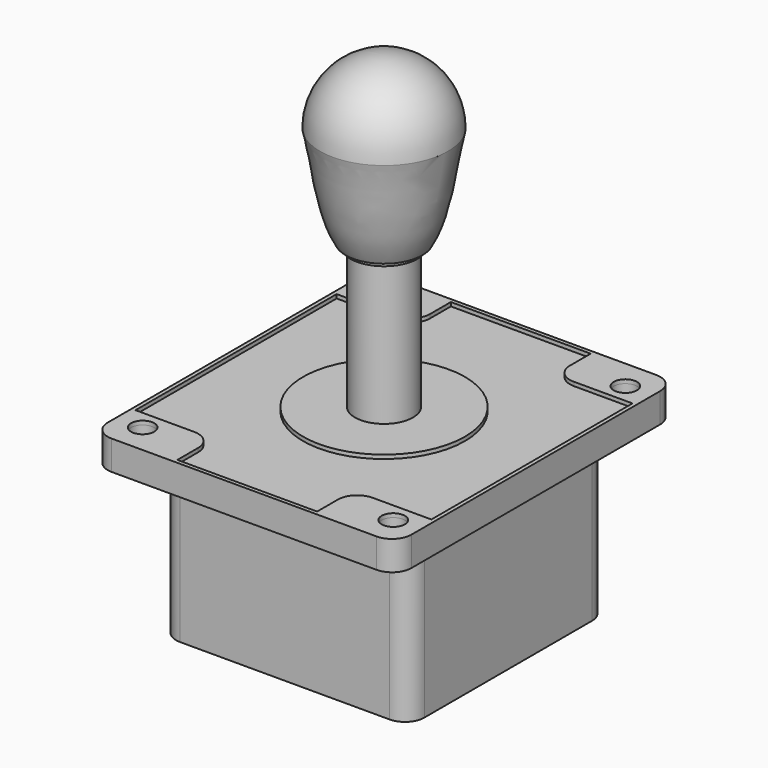
from build123d import *

# Parameters (mm, degrees)
F2_R      = 20.9347351309
F2_R_2    = 7.5
F3_DEPTH  = 1
F4_W      = 78.5
F4_H      = 90.4
F4_R      = 20.9347351309
F4_R_2    = 7.5
F5_DEPTH  = 6.6
F6_W      = 64.2
F6_H      = 64.2
F7_DEPTH  = 41.7
F8_R      = 3
F8_W      = 36.1407659948
F8_H      = 1
F8_W_2    = 1
F8_H_2    = 32.5
F9_DEPTH  = 1
F11_DEPTH = 6.6
F12_R     = 5


with BuildPart() as f1:
    # F0 (on Front) → F1 (revolve)
    with BuildSketch(Plane.XZ):
        with BuildLine():
            Line((-7.5, 0), (0, 0))
            Line((0, 0), (0, 80))
            ThreePointArc((0, 80), (-11.6672618896, 75.1672618896), (-16.5, 63.5))
            add(Edge.make_bspline(
                [(-9.9, 37.7), (-13.9195526105, 44.3828629705), (-14.7425273766, 56.1243776542), (-16.5, 63.5)],
                knots=[0, 0, 0, 0, 26.6308092254, 26.6308092254, 26.6308092254, 26.6308092254], degree=3))
            Line((-9.9, 37.7), (-8.7, 37.7))
            Line((-8.7, 37.7), (-8.7, 36.5))
            Line((-8.7, 36.5), (-7.5, 36.5))
            Line((-7.5, 36.5), (-7.5, 0))
        make_face()
    revolve(axis=Axis((0, 0, 59.7419515252), (0, 0, -1)))

    # F2 (on face) → F3 (join)
    with BuildSketch(Plane(origin=(0, 0, 0), x_dir=(1, 0, 0), z_dir=(0, 0, -1))):
        Circle(F2_R)
        Circle(F2_R_2, mode=Mode.SUBTRACT)
    extrude(amount=F3_DEPTH)


with BuildPart() as f5:
    # F4 (on face) → F5 (new body)
    with BuildSketch(Plane(origin=(0, 0, -1), x_dir=(1, 0, 0), z_dir=(0, 0, -1))):
        Rectangle(F4_W, F4_H)
        Circle(F4_R, mode=Mode.SUBTRACT)
        Circle(F4_R)
        Circle(F4_R_2, mode=Mode.SUBTRACT)
    extrude(amount=F5_DEPTH)

    # F6 (on face) → F7 (join)
    with BuildSketch(Plane(origin=(0, 0, -7.6), x_dir=(1, 0, 0), z_dir=(0, 0, -1))):
        Rectangle(F6_W, F6_H)
    extrude(amount=F7_DEPTH)



with BuildPart() as f9:
    # F8 (on face) → F9 (new body)
    with BuildSketch(Plane.XY.offset(-1)):
        with BuildLine():
            Line((-39.25, 45.2), (-39.25, 32.5))
            Line((-39.25, 32.5), (-38.25, 32.5))
            Line((-38.25, 32.5), (-23.0703829974, 32.5))
            ThreePointArc((-23.0703829974, 32.5), (-19.5348490915, 33.9644660941), (-18.0703829974, 37.5))
            Line((-18.0703829974, 37.5), (-18.0703829974, 44.2))
            Line((-18.0703829974, 44.2), (-18.0703829974, 45.2))
            Line((-18.0703829974, 45.2), (-39.25, 45.2))
        make_face()
        with Locations((-32.4, 37.5)):
            Circle(F8_R, mode=Mode.SUBTRACT)
        with BuildLine():
            Line((39.25, 45.2), (18.0703829974, 45.2))
            Line((18.0703829974, 45.2), (18.0703829974, 44.2))
            Line((18.0703829974, 44.2), (18.0703829974, 37.5))
            ThreePointArc((18.0703829974, 37.5), (19.5348490915, 33.9644660941), (23.0703829974, 32.5))
            Line((23.0703829974, 32.5), (38.25, 32.5))
            Line((38.25, 32.5), (39.25, 32.5))
            Line((39.25, 32.5), (39.25, 45.2))
        make_face()
        with Locations((32.4, 37.5)):
            Circle(F8_R, mode=Mode.SUBTRACT)
        with Locations((0, 44.7)):
            Rectangle(F8_W, F8_H)
        with Locations((-38.75, 16.25)):
            Rectangle(F8_W_2, F8_H_2)
        with Locations((38.75, 16.25)):
            Rectangle(F8_W_2, F8_H_2)
    extrude(amount=F9_DEPTH)


with BuildPart() as f5_1:
    add(f5.part)

    add(f9.part)  # F10 merges F9
    # F10: F9 across plane
    add(f9.part.mirror(Plane.XZ))

    # F11 (cut, through all): faces of the model
    f11_faces = [f5_1.faces().sort_by_distance(p)[0] for p in [
        (-32.4, 37.5, -1),
        (32.4, 37.5, -1),
        (-32.4, -37.5, -1),
        (32.4, -37.5, -1),
    ]]
    extrude(f11_faces, amount=-F11_DEPTH, mode=Mode.SUBTRACT)

    # F12
    f12_edges = [f5_1.edges().sort_by_distance(p)[0] for p in [
        (-39.25, -45.2, -3.8),
        (39.25, -45.2, -3.8),
        (39.25, 45.2, -3.8),
        (-39.25, 45.2, -3.8),
        (-32.1, -32.1, -28.45),
        (-32.1, 32.1, -28.45),
        (32.1, -32.1, -28.45),
        (32.1, 32.1, -28.45),
    ]]
    fillet(f12_edges, radius=F12_R)


solid = Compound([f1.part, f5_1.part])
